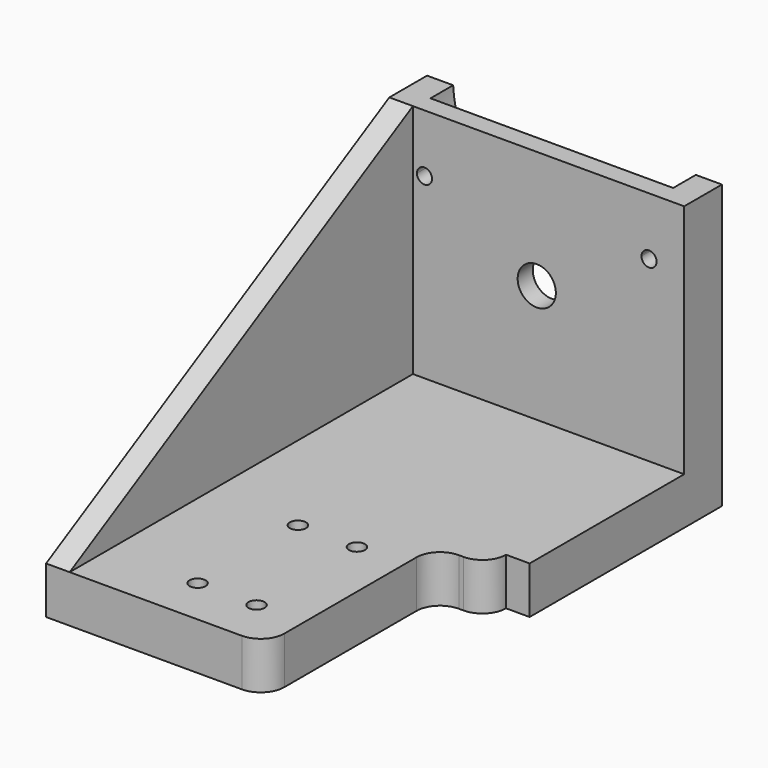
from build123d import *

# Parameters (mm, degrees)
F0_R            = 1.7
F1_DEPTH        = 10
F3_DEPTH        = 50
F4_R            = 4.05
F5_DEPTH        = 6
F6_R            = 4.05
F7_DEPTH        = 25
F8_DEPTH        = 5
F9_DEPTH        = 5
F11_DEPTH       = 5
F13_D           = 3.2
F13_CBORE_D     = 12
F13_CBORE_DEPTH = 6


with BuildPart() as f1:
    # F0 (on Top) → F1 (new body)
    with BuildSketch(Plane.XY):
        with BuildLine():
            Line((26.25, 50.475), (-26.25, 50.475))
            Line((-26.25, 50.475), (-26.25, -50.475))
            Line((-26.25, -50.475), (10.25, -50.475))
            ThreePointArc((10.25, -50.475), (13.7855339059, -49.0105339059), (15.25, -45.475))
            Line((15.25, -45.475), (15.25, -10.475))
            ThreePointArc((15.25, -10.475), (16.7144660941, -6.9394660941), (20.25, -5.475))
            Line((20.25, -5.475), (21.25, -5.475))
            ThreePointArc((21.25, -5.475), (24.7855339059, -4.0105339059), (26.25, -0.475))
            Line((26.25, -0.475), (26.25, 50.475))
        make_face()
        with Locations((-7.25, -40.338)):
            Circle(F0_R, mode=Mode.SUBTRACT)
        with Locations((-7.25, -13.738)):
            Circle(F0_R, mode=Mode.SUBTRACT)
        with Locations((5.25, -40.338)):
            Circle(F0_R, mode=Mode.SUBTRACT)
        with Locations((5.25, -13.738)):
            Circle(F0_R, mode=Mode.SUBTRACT)
    extrude(amount=F1_DEPTH)

    # F2 (on face) → F3 (join)
    with BuildSketch(Plane.XY.offset(10)):
        Polygon((26.25, 50.475), (-26.25, 50.475), (-26.25, 40.475), (-21.25, 40.475), (26.25, 40.475), align=None)
    extrude(amount=F3_DEPTH)

    # F4 (on face) → F5 (cut)
    with BuildSketch(Plane(origin=(0, 50.475, 0), x_dir=(-1, 0, 0), z_dir=(0, 1, 0))):
        with BuildLine():
            Line((13.1008645921, 28.7857142857), (23.2653284998, 50.2142857143))
            ThreePointArc((23.2653284998, 50.2142857143), (24.9764267273, 54.9857675702), (25.7196422992, 60))
            Line((25.7196422992, 60), (-25.7196422992, 60))
            ThreePointArc((-25.7196422992, 60), (-24.9764267273, 54.9857675702), (-23.2653284998, 50.2142857143))
            Line((-23.2653284998, 50.2142857143), (-13.1008645921, 28.7857142857))
            ThreePointArc((-13.1008645921, 28.7857142857), (0, 20.5), (13.1008645921, 28.7857142857))
        make_face()
        with Locations((0, 35)):
            Circle(F4_R, mode=Mode.SUBTRACT)
        with Locations((0, 35)):
            Circle(F4_R)
    extrude(amount=-F5_DEPTH, mode=Mode.SUBTRACT)

    # F6 (on face) → F7 (cut)
    with BuildSketch(Plane(origin=(0, 50.475, 0), x_dir=(-1, 0, 0), z_dir=(0, 1, 0))):
        with Locations((0, 35)):
            Circle(F6_R)
        with BuildLine():
            Line((-22.5965488101, 48.8043743327), (-22.2220881702, 48.0149419886))
            ThreePointArc((-22.2220881702, 48.0149419886), (-22.3543873554, 48.4357142857), (-22.5965488101, 48.8043743327))
        make_face()
        with BuildLine():
            ThreePointArc((-22.5965488101, 48.8043743327), (-25.29758504, 47.1867602215), (-22.2, 47.75))
            ThreePointArc((-22.2, 47.75), (-22.2055316046, 47.8829305689), (-22.2220881702, 48.0149419886))
            Line((-22.2220881702, 48.0149419886), (-22.5965488101, 48.8043743327))
        make_face()
        with BuildLine():
            ThreePointArc((22.5965488101, 48.8043743327), (22.3543873554, 48.4357142857), (22.2220881702, 48.0149419886))
            Line((22.2220881702, 48.0149419886), (22.5965488101, 48.8043743327))
        make_face()
        with BuildLine():
            Line((22.5965488101, 48.8043743327), (22.2220881702, 48.0149419886))
            ThreePointArc((22.2220881702, 48.0149419886), (23.6670694311, 46.1555316046), (25.4, 47.75))
            ThreePointArc((25.4, 47.75), (24.3632397785, 49.24758504), (22.5965488101, 48.8043743327))
        make_face()
    extrude(amount=-F7_DEPTH, mode=Mode.SUBTRACT)

    # F8 (add): a face of the model
    f8_faces = [f1.faces().sort_by_distance(p)[0] for p in [
        (-26.25, 49.3006532667, 30),
    ]]
    extrude(f8_faces, amount=F8_DEPTH)

    # F9 (add): a face of the model
    f9_faces = [f1.faces().sort_by_distance(p)[0] for p in [
        (26.25, 0.3121405529, 5),
    ]]
    extrude(f9_faces, amount=F9_DEPTH)

    # F10 (on face) → F11 (join)
    with BuildSketch(Plane(origin=(-31.25, 0, 0), x_dir=(0, -1, 0), z_dir=(-1, 0, 0))):
        Polygon((50.475, 10), (-40.475, 60), (-40.475, 10), align=None)
    extrude(amount=-F11_DEPTH)

    # F13 (through all)
    with Locations(Plane(origin=(0, 50.475, 0), x_dir=(-1, 0, 0), z_dir=(0, 1, 0))):
        with Locations((-23.8, 47.75), (23.8, 47.75)):
            CounterBoreHole(F13_D / 2, F13_CBORE_D / 2, F13_CBORE_DEPTH)


solid = f1.part
